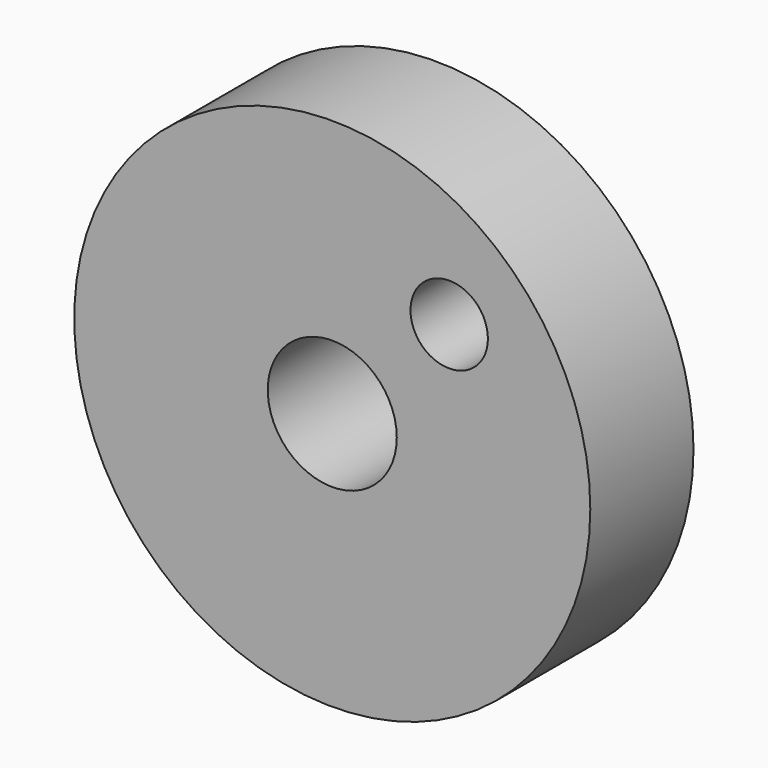
from build123d import *

# Parameters (mm, degrees)
F0_R     = 6.35
F0_R_2   = 1.5875
F0_R_3   = 0.9525
F1_DEPTH = 1.5875


with BuildPart() as f1:
    # F0 (on Front) → F1 (new body, symmetric)
    with BuildSketch(Plane.XZ):
        Circle(F0_R)
        Circle(F0_R_2, mode=Mode.SUBTRACT)
        with Locations((2.87738, 2.869718)):
            Circle(F0_R_3, mode=Mode.SUBTRACT)
    extrude(amount=F1_DEPTH, both=True)


solid = f1.part
